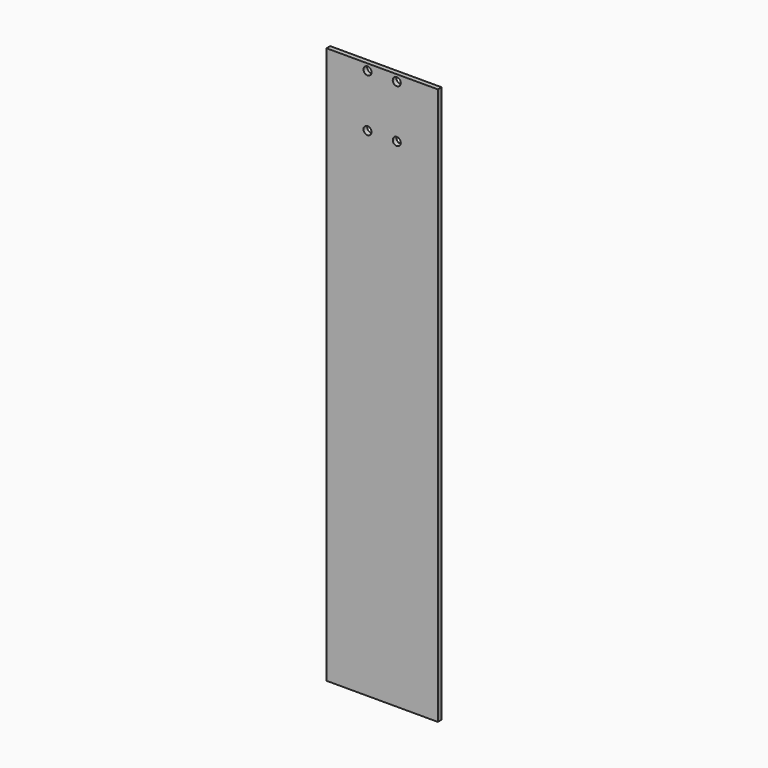
from build123d import *

# Parameters (mm, degrees)
F0_W     = 152.4
F0_H     = 762
F1_DEPTH = 6.35
F2_R     = 5.5
F3_DEPTH = 6.351


with BuildPart() as f1:
    # F0 (on Front) → F1 (new body)
    with BuildSketch(Plane.XZ):
        with Locations((1.283583, 268.935169)):
            Rectangle(F0_W, F0_H)
    extrude(amount=F1_DEPTH)

    # F2 (on face) → F3 (cut, through all)
    with BuildSketch(Plane(origin=(0, 0, 0), x_dir=(-1, 0, 0), z_dir=(0, 1, 0))):
        with Locations((-21.283583, 640.935169)):
            Circle(F2_R)
        with Locations((18.716417, 640.935169)):
            Circle(F2_R)
        with Locations((-21.283583, 568.935169)):
            Circle(F2_R)
        with Locations((18.716417, 568.935169)):
            Circle(F2_R)
    extrude(amount=-F3_DEPTH, mode=Mode.SUBTRACT)


solid = f1.part
